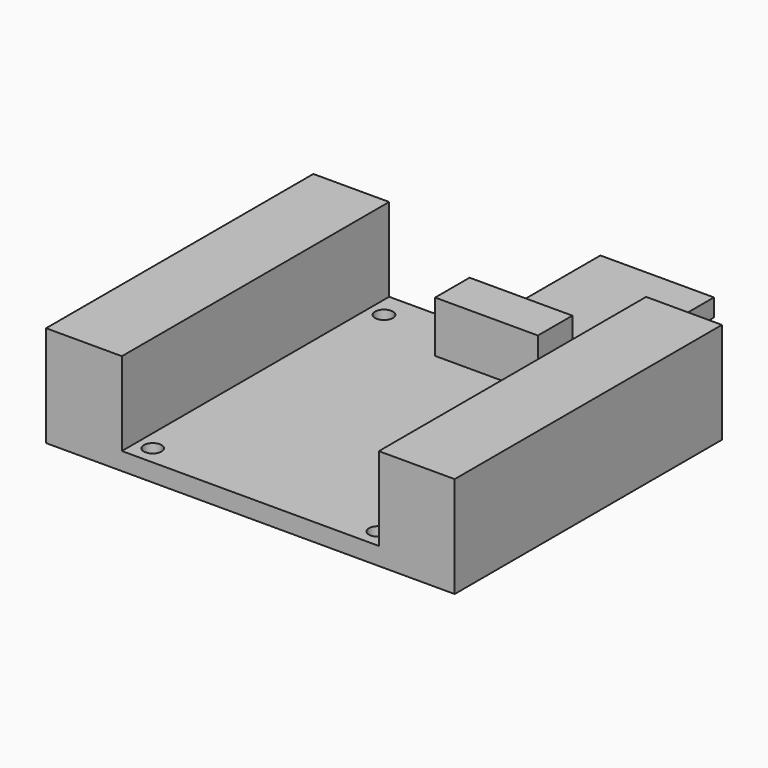
from build123d import *

# Parameters (mm, degrees)
F0_W      = 50.8
F0_H      = 66.04
F1_DEPTH  = 3.5
F2_R      = 1.75
F3_DEPTH  = 25
F4_W      = 20.32
F4_H      = 8.509
F5_DEPTH  = 10.16
F6_W      = 14.986
F6_H      = 66.04
F7_DEPTH  = 20
F9_DEPTH  = 3.5
F10_R     = 1.6
F11_DEPTH = 3.5


with BuildPart() as f1:
    # F0 (on Top) → F1 (new body)
    with BuildSketch(Plane.XY):
        Rectangle(F0_W, F0_H)
    extrude(amount=F1_DEPTH)

    # F2 (on face) → F3 (cut)
    with BuildSketch(Plane.XY.offset(3.5)):
        with Locations((-22.25, 27.813)):
            Circle(F2_R)
        with Locations((-22.25, -29.337)):
            Circle(F2_R)
        with Locations((22.25, 27.813)):
            Circle(F2_R)
        with Locations((22.25, -29.337)):
            Circle(F2_R)
    extrude(amount=-F3_DEPTH, mode=Mode.SUBTRACT)

    # F4 (on face) → F5 (join)
    with BuildSketch(Plane.XY.offset(3.5)):
        with Locations((2.66, 26.2655)):
            Rectangle(F4_W, F4_H)
    extrude(amount=F5_DEPTH)

    # F6 (on face) → F7 (join)
    with BuildSketch(Plane(origin=(0, 0, 0), x_dir=(1, 0, 0), z_dir=(0, 0, -1))):
        with Locations((32.893, 0)):
            Rectangle(F6_W, F6_H)
        with Locations((-32.893, 0)):
            Rectangle(F6_W, F6_H)
    extrude(amount=-F7_DEPTH)

    # F8 (on face) → F9 (join, through all)
    with BuildSketch(Plane.XY.offset(3.5)):
        Polygon((13.884, 64.174), (2.66, 64.174), (-8.564, 64.174), (-8.564, 33.02), (13.884, 33.02), align=None)
    extrude(amount=-F9_DEPTH)

    # F10 (on face) → F11 (cut, through all)
    with BuildSketch(Plane.XY.offset(3.5)):
        with Locations((-5.389, 43.312)):
            Circle(F10_R)
        with Locations((10.709, 43.312)):
            Circle(F10_R)
    extrude(amount=-F11_DEPTH, mode=Mode.SUBTRACT)


solid = f1.part
